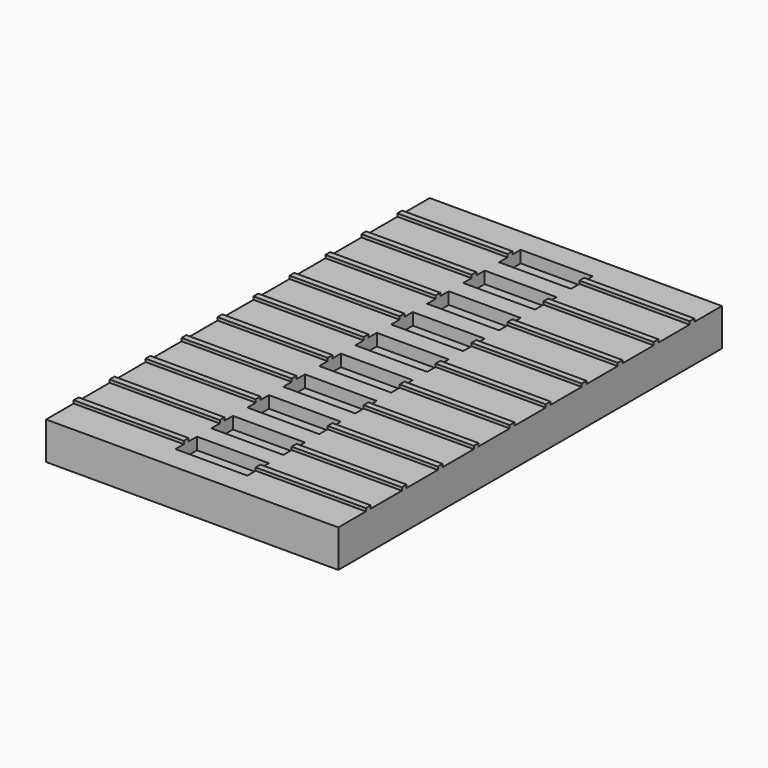
from build123d import *

# Parameters (mm, degrees)
F0_W     = 49.53
F0_H     = 81.28
F1_DEPTH = 6.35
F2_W     = 12.192
F2_H     = 4.572
F3_DEPTH = 2.032
F4_W     = 18.669
F4_H     = 1.016
F5_DEPTH = 0.508


with BuildPart() as f1:
    # F0 (on Top) → F1 (new body)
    with BuildSketch(Plane.XY):
        with Locations((24.765, 40.64)):
            Rectangle(F0_W, F0_H)
    extrude(amount=F1_DEPTH)

    # F2 (on face) → F3 (cut)
    with BuildSketch(Plane.XY.offset(6.35)):
        with Locations((24.765, 6.35)):
            Rectangle(F2_W, F2_H)
        with Locations((24.765, 13.97)):
            Rectangle(F2_W, F2_H)
        with Locations((24.765, 21.59)):
            Rectangle(F2_W, F2_H)
        with Locations((24.765, 29.21)):
            Rectangle(F2_W, F2_H)
        with Locations((24.765, 36.83)):
            Rectangle(F2_W, F2_H)
        with Locations((24.765, 44.45)):
            Rectangle(F2_W, F2_H)
        with Locations((24.765, 52.07)):
            Rectangle(F2_W, F2_H)
        with Locations((24.765, 59.69)):
            Rectangle(F2_W, F2_H)
        with Locations((24.765, 67.31)):
            Rectangle(F2_W, F2_H)
        with Locations((24.765, 74.93)):
            Rectangle(F2_W, F2_H)
    extrude(amount=-F3_DEPTH, mode=Mode.SUBTRACT)

    # F4 (on face) → F5 (join)
    with BuildSketch(Plane.XY.offset(6.35)):
        with Locations((40.1955, 6.35)):
            Rectangle(F4_W, F4_H)
        with Locations((9.3345, 6.35)):
            Rectangle(F4_W, F4_H)
        with Locations((9.3345, 13.97)):
            Rectangle(F4_W, F4_H)
        with Locations((40.1955, 13.97)):
            Rectangle(F4_W, F4_H)
        with Locations((9.3345, 21.59)):
            Rectangle(F4_W, F4_H)
        with Locations((40.1955, 21.59)):
            Rectangle(F4_W, F4_H)
        with Locations((9.3345, 29.21)):
            Rectangle(F4_W, F4_H)
        with Locations((40.1955, 29.21)):
            Rectangle(F4_W, F4_H)
        with Locations((9.3345, 36.83)):
            Rectangle(F4_W, F4_H)
        with Locations((40.1955, 36.83)):
            Rectangle(F4_W, F4_H)
        with Locations((9.3345, 44.45)):
            Rectangle(F4_W, F4_H)
        with Locations((40.1955, 44.45)):
            Rectangle(F4_W, F4_H)
        with Locations((9.3345, 52.07)):
            Rectangle(F4_W, F4_H)
        with Locations((40.1955, 52.07)):
            Rectangle(F4_W, F4_H)
        with Locations((9.3345, 59.69)):
            Rectangle(F4_W, F4_H)
        with Locations((40.1955, 59.69)):
            Rectangle(F4_W, F4_H)
        with Locations((9.3345, 67.31)):
            Rectangle(F4_W, F4_H)
        with Locations((40.1955, 67.31)):
            Rectangle(F4_W, F4_H)
        with Locations((9.3345, 74.93)):
            Rectangle(F4_W, F4_H)
        with Locations((40.1955, 74.93)):
            Rectangle(F4_W, F4_H)
    extrude(amount=F5_DEPTH)


solid = f1.part
